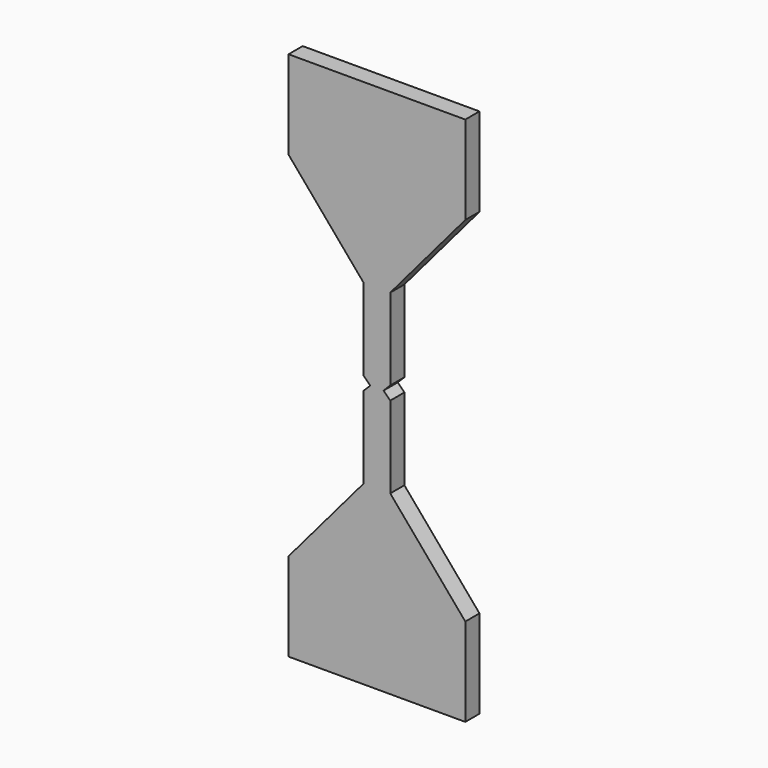
from build123d import *

# Parameters (mm, degrees)
F0_W     = 10
F0_H     = 5
F1_DEPTH = 1


with BuildPart() as f1:
    # F0 (on Front) → F1 (new body)
    with BuildSketch(Plane.XZ):
        Polygon((-0.377013, 15.377013), (-0.377013, 15), (0, 15), (0.377013, 15), (0.754026, 15.377013), (0.754026, 20), (-0.754026, 20), (-0.754026, 15.377013), align=None)
        with Locations((0, 2.5)):
            Rectangle(F0_W, F0_H)
        Polygon((-5, 25), (-0.754026, 20), (0.754026, 20), (5, 25), (5, 30), (-5, 30), align=None)
        Polygon((-0.754026, 10), (-5, 5), (5, 5), (0.754026, 10), align=None)
        Polygon((-0.754026, 14.622987), (-0.754026, 10), (0.754026, 10), (0.754026, 14.622987), (0.377013, 15), (0, 15), (-0.377013, 15), align=None)
        Polygon((-0.754026, 15.377013), (-0.377013, 15), (-0.377013, 15.377013), align=None)
    extrude(amount=F1_DEPTH)


solid = f1.part
